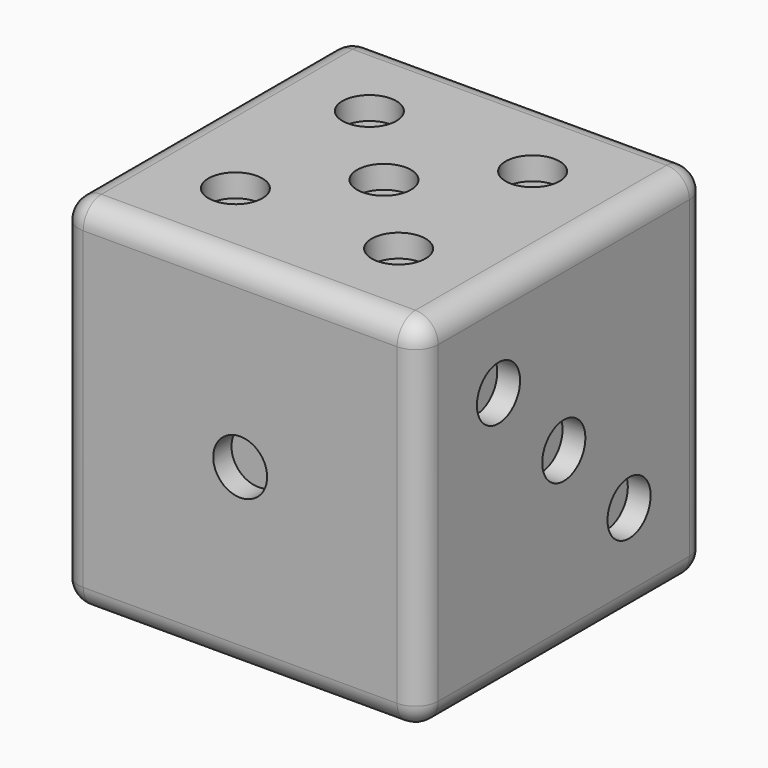
from build123d import *

# Parameters (mm, degrees)
F0_W      = 200
F0_H      = 200
F1_DEPTH  = 200
F2_R      = 12.7
F3_R      = 15
F4_DEPTH  = 12.7
F5_R      = 15
F6_DEPTH  = 12.7
F7_R      = 15
F8_DEPTH  = 12.7
F9_R      = 15
F10_DEPTH = 12.7
F11_R     = 15
F12_DEPTH = 12.7
F13_R     = 15
F14_DEPTH = 12.7


with BuildPart() as f1:
    # F0 (on Front) → F1 (new body)
    with BuildSketch(Plane.XZ):
        Rectangle(F0_W, F0_H)
    extrude(amount=F1_DEPTH)

    # F2
    f2_edges = [f1.edges().sort_by_distance(p)[0] for p in [
        (0, -200, 100),
        (100, -100, 100),
        (-100, -100, 100),
        (-100, -200, 0),
        (0, -200, -100),
        (100, -200, 0),
        (-100, -100, -100),
        (0, 0, 100),
        (-100, 0, 0),
        (0, 0, -100),
        (100, -100, -100),
        (100, 0, 0),
    ]]
    fillet(f2_edges, radius=F2_R)

    # F3 (on face) → F4 (cut)
    with BuildSketch(Plane.XZ.offset(200)):
        Circle(F3_R)
    extrude(amount=-F4_DEPTH, mode=Mode.SUBTRACT)

    # F5 (on face) → F6 (cut)
    with BuildSketch(Plane(origin=(-100, 0, 0), x_dir=(0, -1, 0), z_dir=(-1, 0, 0))):
        with Locations((54.61, 46.586072)):
            Circle(F5_R)
        with Locations((145.39, -46.5838)):
            Circle(F5_R)
    extrude(amount=-F6_DEPTH, mode=Mode.SUBTRACT)

    # F7 (on face) → F8 (cut)
    with BuildSketch(Plane.YZ.offset(100)):
        with Locations((-145.39, 46.5838)):
            Circle(F7_R)
        with Locations((-100, 0)):
            Circle(F7_R)
        with Locations((-54.61, -46.5838)):
            Circle(F7_R)
    extrude(amount=-F8_DEPTH, mode=Mode.SUBTRACT)

    # F9 (on face) → F10 (cut)
    with BuildSketch(Plane.XZ):
        with Locations((45.39, 46.5838)):
            Circle(F9_R)
        with Locations((45.39, -46.5838)):
            Circle(F9_R)
        with Locations((-45.39, -46.5838)):
            Circle(F9_R)
        with Locations((-45.39, 46.5838)):
            Circle(F9_R)
    extrude(amount=F10_DEPTH, mode=Mode.SUBTRACT)

    # F11 (on face) → F12 (cut)
    with BuildSketch(Plane.XY.offset(100)):
        with Locations((0, -100)):
            Circle(F11_R)
        with Locations((-45.39, -53.4162)):
            Circle(F11_R)
        with Locations((45.39, -53.4162)):
            Circle(F11_R)
        with Locations((-45.39, -146.5838)):
            Circle(F11_R)
        with Locations((45.39, -146.5838)):
            Circle(F11_R)
    extrude(amount=-F12_DEPTH, mode=Mode.SUBTRACT)

    # F13 (on face) → F14 (cut)
    with BuildSketch(Plane(origin=(0, 0, -100), x_dir=(1, 0, 0), z_dir=(0, 0, -1))):
        with Locations((45.39, 53.4162)):
            Circle(F13_R)
        with Locations((45.39, 100)):
            Circle(F13_R)
        with Locations((45.39, 146.5838)):
            Circle(F13_R)
        with Locations((-45.39, 53.4162)):
            Circle(F13_R)
        with Locations((-45.39, 100)):
            Circle(F13_R)
        with Locations((-45.39, 146.5838)):
            Circle(F13_R)
    extrude(amount=-F14_DEPTH, mode=Mode.SUBTRACT)


solid = f1.part
